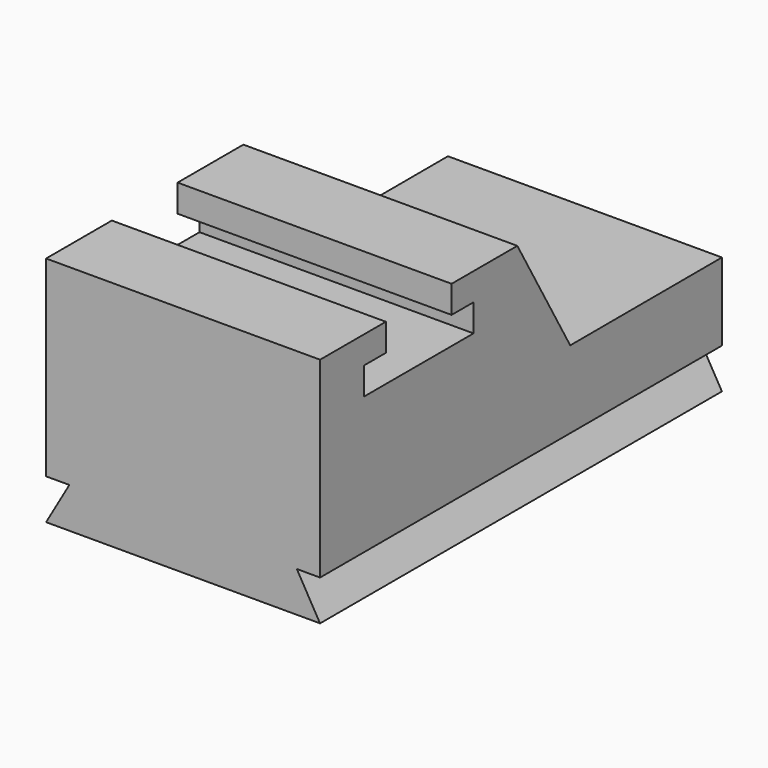
from build123d import *

# Parameters (mm, degrees)
F1_DEPTH = 1524
F3_DEPTH = 2794


with BuildPart() as f1:
    # F0 (on Right) → F1 (new body)
    with BuildSketch(Plane.YZ):
        Polygon((-207.156241, -61.532922), (2586.843759, -61.532922), (2586.843759, 370.267078), (1532.130971, 368.414145), (1164.443759, 1005.267078), (707.243759, 1005.267078), (707.243759, 852.867078), (859.643759, 852.867078), (859.643759, 700.467078), (97.643759, 700.467078), (97.643759, 852.867078), (250.043759, 852.867078), (250.043759, 1005.267078), (-207.156241, 1005.267078), align=None)
    extrude(amount=F1_DEPTH)

    # F2 (on face) → F3 (join)
    with BuildSketch(Plane.XZ.offset(207.156241)):
        Polygon((0, -285.855362), (1524, -285.855362), (1394.487379, -61.532922), (129.512621, -61.532922), align=None)
    extrude(amount=-F3_DEPTH)


solid = f1.part
